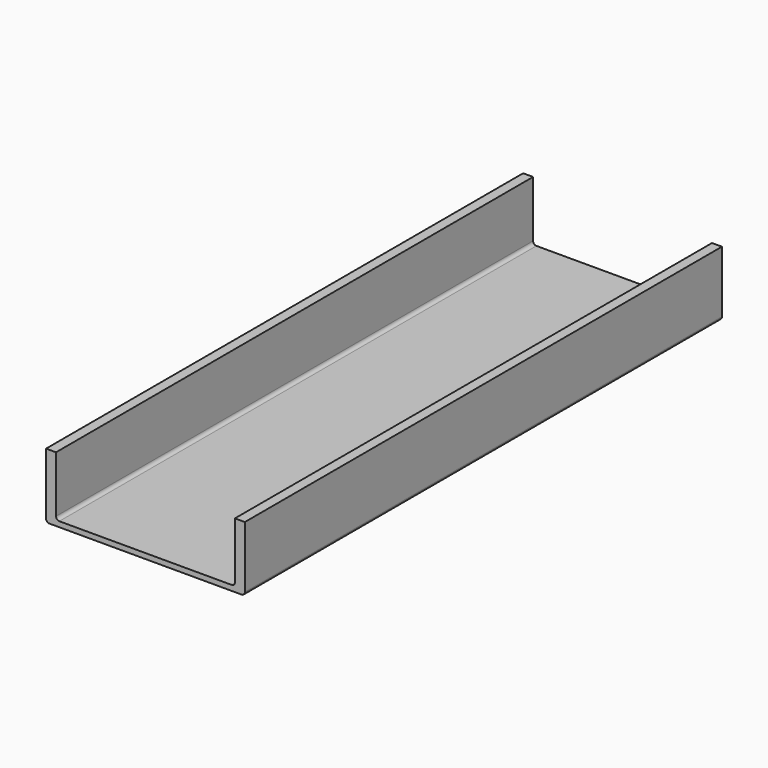
from build123d import *

# Parameters (mm, degrees)
F1_DEPTH = 450
F2_R     = 5
F3_DEPTH = 30


with BuildPart() as f1:
    # F0 (on Front) → F1 (new body, symmetric)
    with BuildSketch(Plane.XZ):
        with BuildLine():
            ThreePointArc((-285.93334, 5), (-284.468874, 1.464466), (-280.93334, 0))
            Line((-280.93334, 0), (9.06666, 0))
            ThreePointArc((9.06666, 0), (12.602194, 1.464466), (14.06666, 5))
            Line((14.06666, 5), (14.06666, 98))
            Line((14.06666, 98), (-0.93334, 98))
            Line((-0.93334, 98), (-0.93334, 13))
            ThreePointArc((-0.93334, 13), (-2.397806, 9.464466), (-5.93334, 8))
            Line((-5.93334, 8), (-265.93334, 8))
            ThreePointArc((-265.93334, 8), (-269.468874, 9.464466), (-270.93334, 13))
            Line((-270.93334, 13), (-270.93334, 98))
            Line((-270.93334, 98), (-285.93334, 98))
            Line((-285.93334, 98), (-285.93334, 5))
        make_face()
    extrude(amount=F1_DEPTH, both=True)

    # F2 (on face) → F3 (join)
    with BuildSketch(Plane(origin=(-285.93334, 0, 0), x_dir=(0, -1, 0), z_dir=(-1, 0, 0))):
        with Locations((-100, 55)):
            Circle(F2_R)
        with BuildLine():
            ThreePointArc((105, 55), (100, 60), (95, 55))
            ThreePointArc((95, 55), (100, 50), (105, 55))
        make_face()
    extrude(amount=F3_DEPTH)


solid = f1.part
